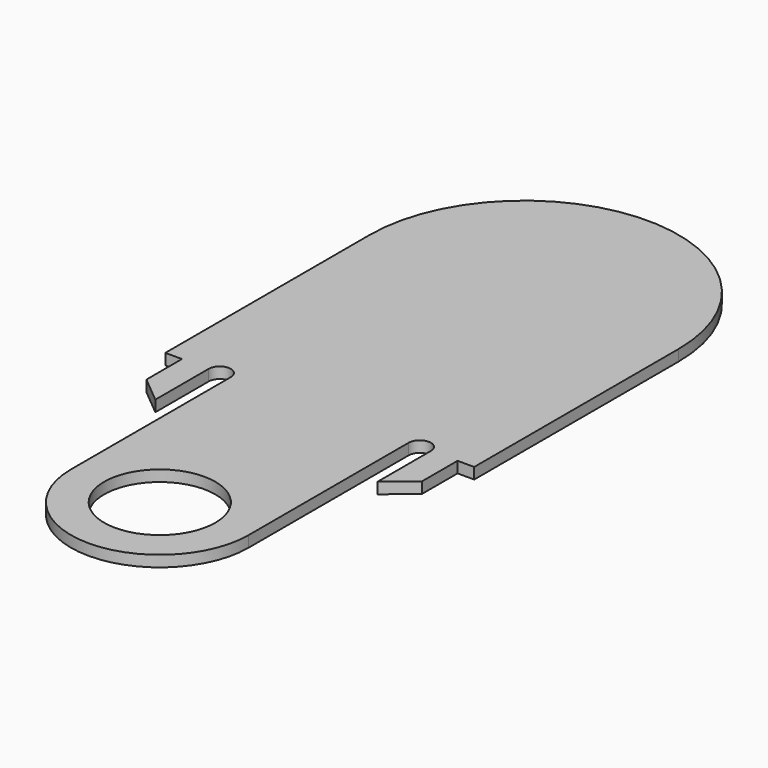
from build123d import *

# Parameters (mm, degrees)
F0_R     = 5
F1_DEPTH = 1


with BuildPart() as f1:
    # F0 (on Top) → F1 (new body)
    with BuildSketch(Plane.XY):
        with BuildLine():
            Line((-12.4, -27), (-10, -29))
            Line((-10, -29), (-10, -23))
            ThreePointArc((-10, -23), (-9, -22), (-8, -23))
            Line((-8, -23), (-8, -41))
            ThreePointArc((-8, -41), (0, -49), (8, -41))
            Line((8, -41), (8, -23))
            ThreePointArc((8, -23), (9, -22), (10, -23))
            Line((10, -23), (10, -29))
            Line((10, -29), (12.4, -27))
            Line((12.4, -27), (12.4, -23))
            Line((12.4, -23), (13.9, -23))
            Line((13.9, -23), (13.9, 0))
            ThreePointArc((13.9, 0), (0, 13.9), (-13.9, 0))
            Line((-13.9, 0), (-13.9, -23))
            Line((-13.9, -23), (-12.4, -23))
            Line((-12.4, -23), (-12.4, -27))
        make_face()
        with Locations((0, -41)):
            Circle(F0_R, mode=Mode.SUBTRACT)
    extrude(amount=F1_DEPTH)


solid = f1.part
